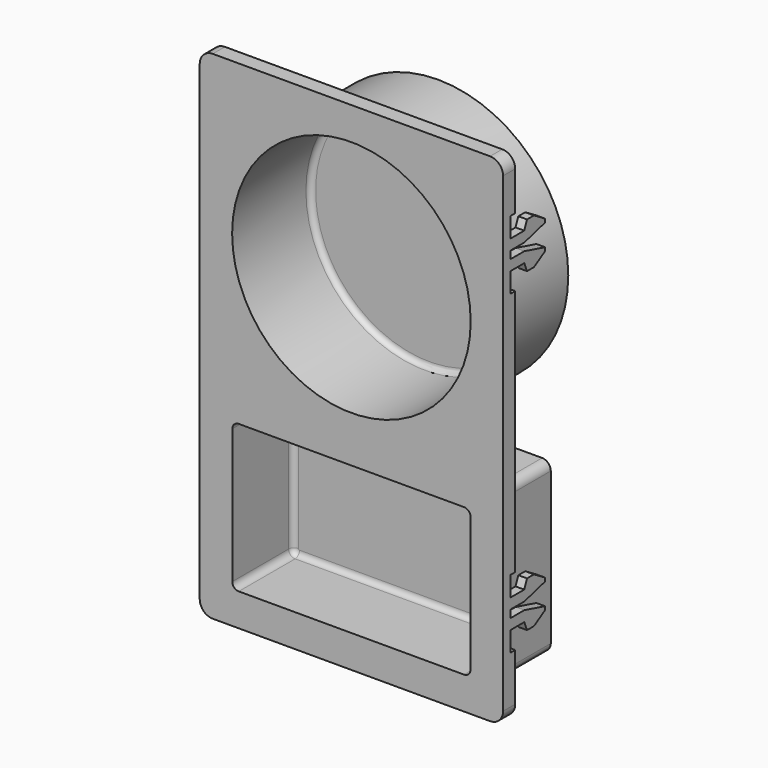
from build123d import *

# Parameters (mm, degrees)
F1_DEPTH  = 4.445
F3_DEPTH  = 1.778
F5_R      = 38.1
F6_DEPTH  = 31.75
F4_R      = 34.925
F7_DEPTH  = 28.575
F10_DEPTH = 25.4
F11_DEPTH = 22.225
F12_R     = 1.5875
F13_W     = 1.778
F13_H     = 20.066
F14_DEPTH = 2.54
F15_W     = 1.778
F15_H     = 20.066
F16_DEPTH = 2.54
F17_W     = 1.778
F17_H     = 20.066
F18_DEPTH = 2.54
F19_W     = 1.778
F19_H     = 20.066
F20_DEPTH = 2.54
F22_DEPTH = 2.54
F23_START = -86.2838
F23_DEPTH = 2.54


with BuildPart() as f1:
    # F0 (on Front) → F1 (new body)
    with BuildSketch(Plane.XZ):
        with BuildLine():
            Line((40.6019, 72.8091), (-40.6019, 72.8091))
            ThreePointArc((-40.6019, 72.8091), (-43.2959768363, 71.6931768363), (-44.4119, 68.9991))
            Line((-44.4119, 68.9991), (-44.4119, -68.9991))
            ThreePointArc((-44.4119, -68.9991), (-43.2959768363, -71.6931768363), (-40.6019, -72.8091))
            Line((-40.6019, -72.8091), (40.6019, -72.8091))
            ThreePointArc((40.6019, -72.8091), (43.2959768363, -71.6931768363), (44.4119, -68.9991))
            Line((44.4119, -68.9991), (44.4119, 68.9991))
            ThreePointArc((44.4119, 68.9991), (43.2959768363, 71.6931768363), (40.6019, 72.8091))
        make_face()
    extrude(amount=F1_DEPTH)

    # F2 (on face) → F3 (cut)
    with BuildSketch(Plane.XZ):
        with BuildLine():
            Line((41.8719, -67.7291), (41.8719, 67.7291))
            ThreePointArc((41.8719, 67.7291), (41.1279512242, 69.5251512242), (39.3319, 70.2691))
            Line((39.3319, 70.2691), (-39.3319, 70.2691))
            ThreePointArc((-39.3319, 70.2691), (-41.1279512242, 69.5251512242), (-41.8719, 67.7291))
            Line((-41.8719, 67.7291), (-41.8719, -67.7291))
            ThreePointArc((-41.8719, -67.7291), (-41.1279512242, -69.5251512242), (-39.3319, -70.2691))
            Line((-39.3319, -70.2691), (39.3319, -70.2691))
            ThreePointArc((39.3319, -70.2691), (41.1279512242, -69.5251512242), (41.8719, -67.7291))
        make_face()
    extrude(amount=F3_DEPTH, mode=Mode.SUBTRACT)

    # F5 (on face) → F6 (join)
    with BuildSketch(Plane.XZ.offset(4.445)):
        with Locations((0, 28.3591)):
            Circle(F5_R)
    extrude(amount=-F6_DEPTH)

    # F4 (on face) → F7 (cut)
    with BuildSketch(Plane.XZ.offset(4.445)):
        with Locations((0, 28.3591)):
            Circle(F4_R)
    extrude(amount=-F7_DEPTH, mode=Mode.SUBTRACT)

    # F8 (on face) → F10 (join)
    with BuildSketch(Plane.XZ.offset(4.445)):
        with BuildLine():
            Line((35.5219, -16.9291), (-35.5219, -16.9291))
            ThreePointArc((-35.5219, -16.9291), (-37.3179512242, -17.6730487758), (-38.0619, -19.4691))
            Line((-38.0619, -19.4691), (-38.0619, -63.9191))
            ThreePointArc((-38.0619, -63.9191), (-37.3179512242, -65.7151512242), (-35.5219, -66.4591))
            Line((-35.5219, -66.4591), (35.5219, -66.4591))
            ThreePointArc((35.5219, -66.4591), (37.3179512242, -65.7151512242), (38.0619, -63.9191))
            Line((38.0619, -63.9191), (38.0619, -19.4691))
            ThreePointArc((38.0619, -19.4691), (37.3179512242, -17.6730487758), (35.5219, -16.9291))
        make_face()
    extrude(amount=-F10_DEPTH)

    # F9 (on face) → F11 (cut)
    with BuildSketch(Plane.XZ.offset(4.445)):
        with BuildLine():
            Line((32.9819, -20.1041), (-32.9819, -20.1041))
            ThreePointArc((-32.9819, -20.1041), (-34.3289384182, -20.6620615818), (-34.8869, -22.0091))
            Line((-34.8869, -22.0091), (-34.8869, -61.3791))
            ThreePointArc((-34.8869, -61.3791), (-34.3289384182, -62.7261384182), (-32.9819, -63.2841))
            Line((-32.9819, -63.2841), (32.9819, -63.2841))
            ThreePointArc((32.9819, -63.2841), (34.3289384182, -62.7261384182), (34.8869, -61.3791))
            Line((34.8869, -61.3791), (34.8869, -22.0091))
            ThreePointArc((34.8869, -22.0091), (34.3289384182, -20.6620615818), (32.9819, -20.1041))
        make_face()
    extrude(amount=-F11_DEPTH, mode=Mode.SUBTRACT)

    # F12
    f12_edges = [f1.edges().sort_by_distance(p)[0] for p in [
        (34.8869, 17.78, -41.6941),
        (34.328938, 17.78, -20.662062),
        (0, 17.78, -20.1041),
        (-34.328938, 17.78, -20.662062),
        (-34.8869, 17.78, -41.6941),
        (-34.328938, 17.78, -62.726138),
        (0, 17.78, -63.2841),
        (34.328938, 17.78, -62.726138),
        (-34.925, 24.13, 28.3591),
    ]]
    fillet(f12_edges, radius=F12_R)

    # F13 (on face) → F14 (cut)
    with BuildSketch(Plane.YZ.offset(44.4119)):
        with Locations((-0.889, -44.9961)):
            Rectangle(F13_W, F13_H)
    extrude(amount=-F14_DEPTH, mode=Mode.SUBTRACT)

    # F15 (on face) → F16 (cut)
    with BuildSketch(Plane(origin=(-44.4119, 0, 0), x_dir=(0, -1, 0), z_dir=(-1, 0, 0))):
        with Locations((0.889, -44.9961)):
            Rectangle(F15_W, F15_H)
    extrude(amount=-F16_DEPTH, mode=Mode.SUBTRACT)

    # F17 (on face) → F18 (cut)
    with BuildSketch(Plane.YZ.offset(44.4119)):
        with Locations((-0.889, 47.5361)):
            Rectangle(F17_W, F17_H)
    extrude(amount=-F18_DEPTH, mode=Mode.SUBTRACT)

    # F19 (on face) → F20 (cut)
    with BuildSketch(Plane(origin=(-44.4119, 0, 0), x_dir=(0, -1, 0), z_dir=(-1, 0, 0))):
        with Locations((0.889, 47.5361)):
            Rectangle(F19_W, F19_H)
    extrude(amount=-F20_DEPTH, mode=Mode.SUBTRACT)

    # F21 (on face) → F22 (join)
    with BuildSketch(Plane.YZ.offset(44.4119)):
        Polygon((-1.778, -46.1137), (-1.778, -49.1871), (3.302, -49.1871), (4.318, -51.6636), (6.858, -51.6636), (10.922, -49.1871), (10.922, -48.1711), (3.3188345842, -46.1137), align=None)
        Polygon((-1.778, -40.8051), (-1.778, -43.8785), (3.3188345842, -43.8785), (10.922, -41.8211), (10.922, -40.8051), (6.858, -38.3286), (4.318, -38.3286), (3.302, -40.8051), align=None)
        Polygon((-1.778, 46.4185), (-1.778, 43.3451), (3.302, 43.3451), (4.318, 40.8686), (6.858, 40.8686), (10.922, 43.3451), (10.922, 44.3611), (3.3188345842, 46.4185), align=None)
        Polygon((3.302, 51.7271), (-1.778, 51.7271), (-1.778, 48.6537), (3.3188345842, 48.6537), (10.922, 50.7111), (10.922, 51.7271), (6.858, 54.2036), (4.318, 54.2036), align=None)
    extrude(amount=-F22_DEPTH)

    # F21 (on face) → F23 (join)
    with BuildSketch(Plane.YZ.offset(44.4119).offset(F23_START)):
        Polygon((-1.778, -46.1137), (-1.778, -49.1871), (3.302, -49.1871), (4.318, -51.6636), (6.858, -51.6636), (10.922, -49.1871), (10.922, -48.1711), (3.3188345842, -46.1137), align=None)
        Polygon((-1.778, -40.8051), (-1.778, -43.8785), (3.3188345842, -43.8785), (10.922, -41.8211), (10.922, -40.8051), (6.858, -38.3286), (4.318, -38.3286), (3.302, -40.8051), align=None)
        Polygon((-1.778, 46.4185), (-1.778, 43.3451), (3.302, 43.3451), (4.318, 40.8686), (6.858, 40.8686), (10.922, 43.3451), (10.922, 44.3611), (3.3188345842, 46.4185), align=None)
        Polygon((3.302, 51.7271), (-1.778, 51.7271), (-1.778, 48.6537), (3.3188345842, 48.6537), (10.922, 50.7111), (10.922, 51.7271), (6.858, 54.2036), (4.318, 54.2036), align=None)
    extrude(amount=-F23_DEPTH)


solid = f1.part
